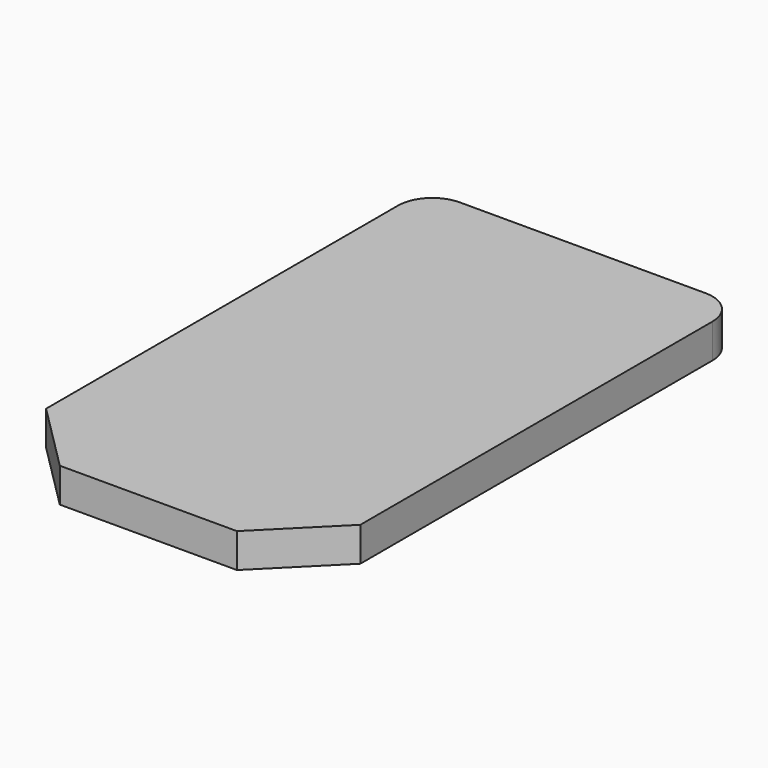
from build123d import *

# Parameters (mm, degrees)
F1_DEPTH = 3


with BuildPart() as f1:
    # F0 (on Top) → F1 (new body)
    with BuildSketch(Plane.XY):
        with BuildLine():
            Line((-46.185345, 45.218922), (-67.685345, 45.218922))
            ThreePointArc((-67.685345, 45.218922), (-69.806666, 44.340243), (-70.685345, 42.218922))
            Line((-70.685345, 42.218922), (-70.685345, 3.718922))
            Line((-70.685345, 3.718922), (-64.685345, -2.281078))
            Line((-64.685345, -2.281078), (-49.185345, -2.281078))
            Line((-49.185345, -2.281078), (-43.185345, 3.718922))
            Line((-43.185345, 3.718922), (-43.185345, 42.218922))
            ThreePointArc((-43.185345, 42.218922), (-44.064025, 44.340243), (-46.185345, 45.218922))
        make_face()
    extrude(amount=F1_DEPTH)


solid = f1.part
